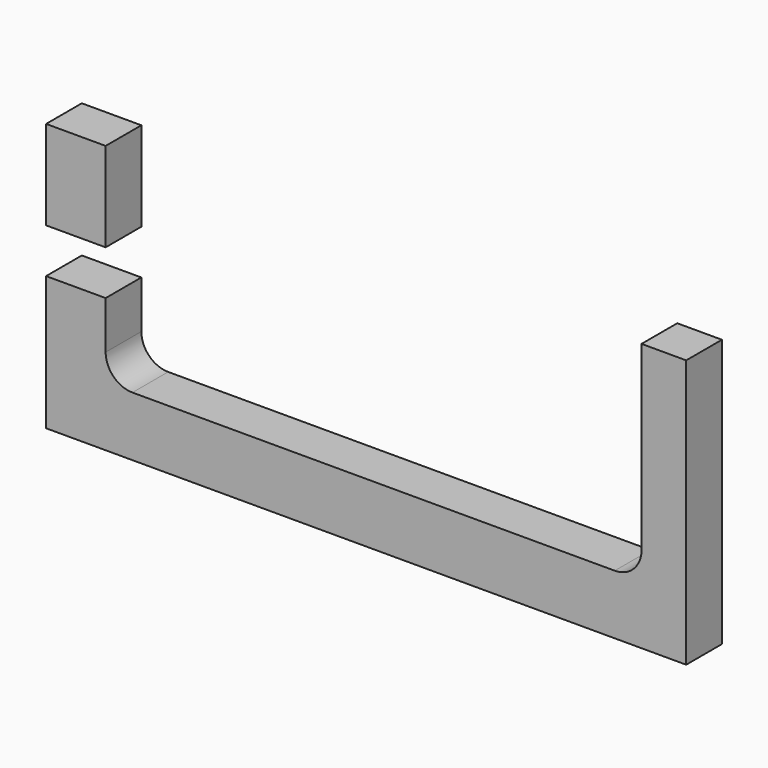
from build123d import *

# Parameters (mm, degrees)
F0_W     = 273.05
F0_H     = 114.3
F1_DEPTH = 19.05
F2_W     = 25.4
F2_H     = 19.05
F3_DEPTH = 25.4


with BuildPart() as f1:
    # F0 (on Front) → F1 (new body)
    with BuildSketch(Plane.XZ):
        with Locations((136.525, 57.15)):
            Rectangle(F0_W, F0_H)
    extrude(amount=F1_DEPTH)

    # F2 (on face) → F3 (cut)
    with BuildSketch(Plane.XZ.offset(19.05)):
        with Locations((12.7, 66.675)):
            Rectangle(F2_W, F2_H)
        with BuildLine():
            Line((25.4, 114.3), (25.4, 76.2))
            Line((25.4, 76.2), (25.4, 57.15))
            Line((25.4, 57.15), (25.4, 36.83))
            ThreePointArc((25.4, 36.83), (28.747769, 28.747769), (36.83, 25.4))
            Line((36.83, 25.4), (242.57, 25.4))
            ThreePointArc((242.57, 25.4), (250.652231, 28.747769), (254, 36.83))
            Line((254, 36.83), (254, 114.3))
            Line((254, 114.3), (25.4, 114.3))
        make_face()
    extrude(amount=-F3_DEPTH, mode=Mode.SUBTRACT)


solid = f1.part
